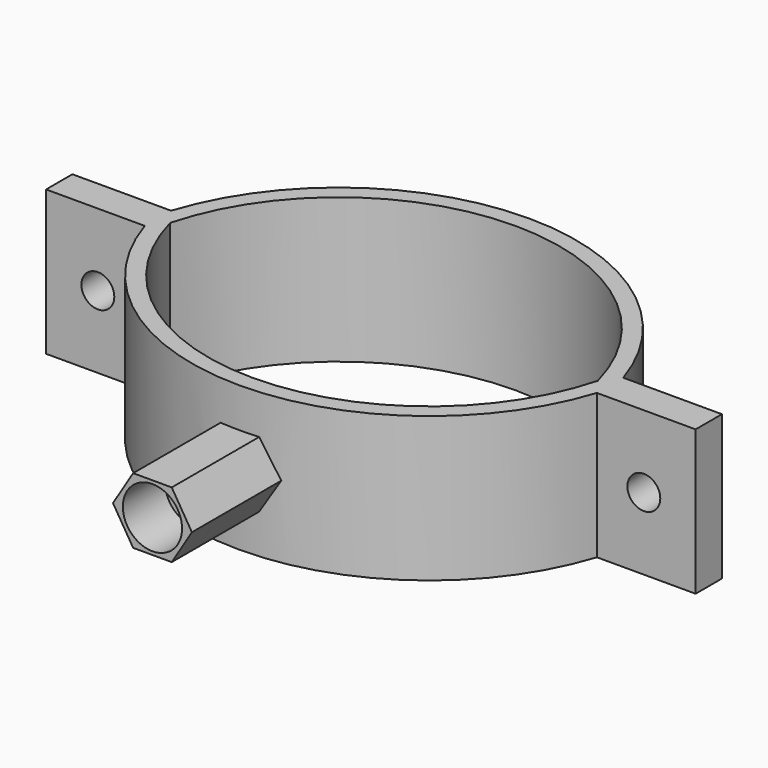
from build123d import *

# Parameters (mm, degrees)
F1_DEPTH = 22
F4_DEPTH = 19
F5_R     = 2.5
F6_DEPTH = 5
F7_R     = 4.5
F8_DEPTH = 8


with BuildPart() as f1:
    # F0 (on Top) → F1 (new body)
    with BuildSketch(Plane.XY):
        with BuildLine():
            ThreePointArc((-32.5, 0), (0, 25), (32.5, 0))
            Line((32.5, 0), (49.369318, 0))
            Line((49.369318, 0), (49.369318, 2.5))
            Line((49.369318, 2.5), (34.369318, 2.5))
            ThreePointArc((34.369318, 2.5), (0, 27.5), (-34.369318, 2.5))
            Line((-34.369318, 2.5), (-49.369318, 2.5))
            Line((-49.369318, 2.5), (-49.369318, 0))
            Line((-49.369318, 0), (-32.5, 0))
        make_face()
        with BuildLine():
            Line((49.369318, 0), (32.5, 0))
            ThreePointArc((32.5, 0), (0, -25), (-32.5, 0))
            Line((-32.5, 0), (-49.369318, 0))
            Line((-49.369318, 0), (-49.369318, -2.5))
            Line((-49.369318, -2.5), (-34.369318, -2.5))
            ThreePointArc((-34.369318, -2.5), (0, -27.5), (34.369318, -2.5))
            Line((34.369318, -2.5), (49.369318, -2.5))
            Line((49.369318, -2.5), (49.369318, 0))
        make_face()
    extrude(amount=F1_DEPTH)

    # F3 (on offset) → F4 (join)
    with BuildSketch(Plane.XZ.offset(25)):
        Polygon((6, 11), (2.932883, 16), (-2.932883, 16), (-6, 11), (-2.932883, 6), (2.932883, 6), align=None)
    extrude(amount=F4_DEPTH)

    # F5 (on face) → F6 (cut, through all)
    with BuildSketch(Plane.XZ.offset(2.5)):
        with Locations((41.5, 11)):
            Circle(F5_R)
        with Locations((-41.5, 11)):
            Circle(F5_R)
    extrude(amount=-F6_DEPTH, mode=Mode.SUBTRACT)

    # F7 (on face) → F8 (cut)
    with BuildSketch(Plane.XZ.offset(44)):
        with Locations((0, 11)):
            Circle(F7_R)
    extrude(amount=-F8_DEPTH, mode=Mode.SUBTRACT)


solid = f1.part
